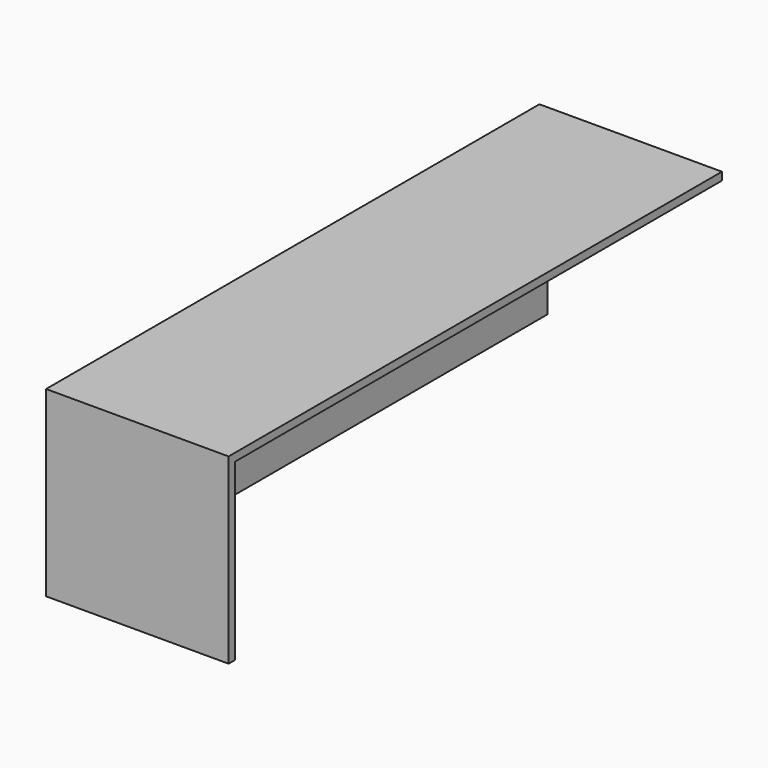
from build123d import *

# Parameters (mm, degrees)
F0_W     = 370
F0_H     = 1250
F1_DEPTH = 370
F2_T     = -16


with BuildPart() as f1:
    # F0 (on Top) → F1 (new body)
    with BuildSketch(Plane.XY):
        with Locations((-185, 625)):
            Rectangle(F0_W, F0_H)
    extrude(amount=F1_DEPTH)

    # F2
    f2_openings = [f1.faces().sort_by_distance(p)[0] for p in [
        (0, 625, 185),
        (-185, 625, 0),
        (-185, 1250, 185),
    ]]
    offset(amount=F2_T, openings=f2_openings)


solid = f1.part
